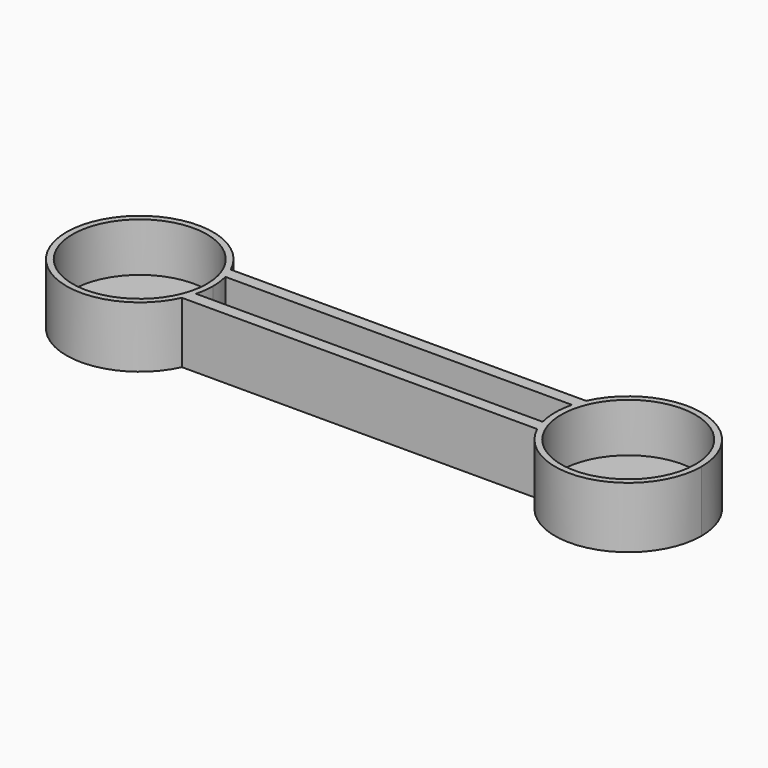
from build123d import *

# Parameters (mm, degrees)
F1_DEPTH  = 2
F2_DEPTH  = 10
F3_R      = 4
F4_DEPTH  = 10.001
F3_R_2    = 11
F5_DEPTH  = 8
F6_R      = 4
F7_DEPTH  = 10.001
F6_R_2    = 11
F8_DEPTH  = 8
F10_DEPTH = 8


with BuildPart() as f1:
    # F0 (on Top) → F1 (new body)
    with BuildSketch(Plane.XY):
        with BuildLine():
            ThreePointArc((12, 5), (11.7240041235, 2.4411472664), (10.9087121146, 0))
            Line((10.9087121146, 0), (69.0912878854, 0))
            ThreePointArc((69.0912878854, 0), (68, 5), (69.0912878854, 10))
            Line((69.0912878854, 10), (10.9087121146, 10))
            ThreePointArc((10.9087121146, 10), (11.7240041235, 7.5588527336), (12, 5))
        make_face()
    extrude(amount=F1_DEPTH)

    # F0 (on Top) → F2 (join)
    with BuildSketch(Plane.XY):
        with BuildLine():
            Line((10.9087121146, 0), (0, 0))
            Line((0, 0), (0, 10))
            Line((0, 10), (10.9087121146, 10))
            ThreePointArc((10.9087121146, 10), (-12, 5), (10.9087121146, 0))
        make_face()
        with BuildLine():
            ThreePointArc((69.0912878854, 10), (68, 5), (69.0912878854, 0))
            Line((69.0912878854, 0), (80, 0))
            Line((80, 0), (80, 10))
            Line((80, 10), (69.0912878854, 10))
        make_face()
        with BuildLine():
            Line((80, 0), (69.0912878854, 0))
            ThreePointArc((69.0912878854, 0), (82.5588527336, -6.7240041235), (92, 5))
            ThreePointArc((92, 5), (82.5588527336, 16.7240041235), (69.0912878854, 10))
            Line((69.0912878854, 10), (80, 10))
            Line((80, 10), (80, 0))
        make_face()
        with BuildLine():
            Line((0, 10), (0, 0))
            Line((0, 0), (10.9087121146, 0))
            ThreePointArc((10.9087121146, 0), (11.7240041235, 2.4411472664), (12, 5))
            ThreePointArc((12, 5), (11.7240041235, 7.5588527336), (10.9087121146, 10))
            Line((10.9087121146, 10), (0, 10))
        make_face()
    extrude(amount=F2_DEPTH)

    # F3 (on face) → F4 (cut, through all)
    with BuildSketch(Plane.XY.offset(10)):
        with Locations((0, 5)):
            Circle(F3_R)
    extrude(amount=-F4_DEPTH, mode=Mode.SUBTRACT)

    # F3 (on face) → F5 (cut)
    with BuildSketch(Plane.XY.offset(10)):
        with Locations((0, 5)):
            Circle(F3_R_2)
        with Locations((0, 5)):
            Circle(F3_R, mode=Mode.SUBTRACT)
    extrude(amount=-F5_DEPTH, mode=Mode.SUBTRACT)

    # F6 (on face) → F7 (cut, through all)
    with BuildSketch(Plane.XY.offset(10)):
        with Locations((80, 5)):
            Circle(F6_R)
    extrude(amount=-F7_DEPTH, mode=Mode.SUBTRACT)

    # F6 (on face) → F8 (cut)
    with BuildSketch(Plane.XY.offset(10)):
        with Locations((80, 5)):
            Circle(F6_R_2)
        with Locations((80, 5)):
            Circle(F6_R, mode=Mode.SUBTRACT)
    extrude(amount=-F8_DEPTH, mode=Mode.SUBTRACT)

    # F9 (on face) → F10 (join)
    with BuildSketch(Plane.XY.offset(2)):
        with BuildLine():
            ThreePointArc((10.9087121146, 10), (11.3081338214, 9.0157327447), (11.6189500386, 8))
            Line((11.6189500386, 8), (68.3810499614, 8))
            ThreePointArc((68.3810499614, 8), (68.6918661786, 9.0157327447), (69.0912878854, 10))
            Line((69.0912878854, 10), (10.9087121146, 10))
        make_face()
        with BuildLine():
            ThreePointArc((11.6189500386, 2), (11.3081338214, 0.9842672553), (10.9087121146, 0))
            Line((10.9087121146, 0), (69.0912878854, 0))
            ThreePointArc((69.0912878854, 0), (68.6918661786, 0.9842672553), (68.3810499614, 2))
            Line((68.3810499614, 2), (11.6189500386, 2))
        make_face()
    extrude(amount=F10_DEPTH)


solid = f1.part
